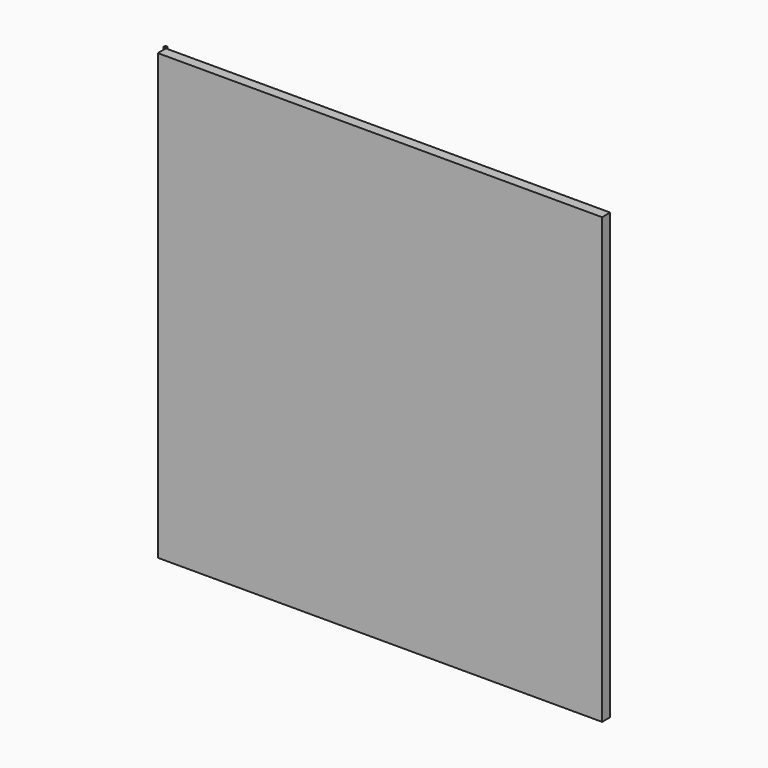
from build123d import *

# Parameters (mm, degrees)
F0_W     = 2200
F0_H     = 2200
F1_DEPTH = 50
F2_R     = 4
F3_DEPTH = 2200
F4_W     = 20
F4_H     = 30
F4_R     = 6
F5_DEPTH = 5


with BuildPart() as f1:
    # F0 (on Front) → F1 (new body)
    with BuildSketch(Plane.XZ):
        Rectangle(F0_W, F0_H)
    extrude(amount=F1_DEPTH)

    # F2 (on face) → F3 (join)
    with BuildSketch(Plane.XY.offset(1100)):
        with BuildLine():
            ThreePointArc((-1105.353447, 1.691975), (-1102.181411, 4.459526), (-1101, 8.5))
            ThreePointArc((-1101, 8.5), (-1113.818829, 13.787727), (-1108.456016, 1.000129))
            ThreePointArc((-1108.456016, 1.000129), (-1106.867657, 1.179791), (-1105.353447, 1.691975))
        make_face()
        with Locations((-1108.5, 8.5)):
            Circle(F2_R, mode=Mode.SUBTRACT)
        with BuildLine():
            ThreePointArc((-1105.353447, 1.691975), (-1106.867657, 1.179791), (-1108.456016, 1.000129))
            Line((-1108.456016, 1.000129), (-1108.456016, 0))
            Line((-1108.456016, 0), (-1100, 0))
            Line((-1100, 0), (-1090.031385, 0))
            Line((-1090.031385, 0), (-1090.031385, 1.691975))
            Line((-1090.031385, 1.691975), (-1105.353447, 1.691975))
        make_face()
    extrude(amount=-F3_DEPTH)

    # F4 (on face) → F5 (join)
    with BuildSketch(Plane(origin=(0, 0, -1100), x_dir=(1, 0, 0), z_dir=(0, 0, -1))):
        with Locations((-751, -15)):
            Rectangle(F4_W, F4_H)
        with Locations((-751, -20)):
            Circle(F4_R, mode=Mode.SUBTRACT)
    extrude(amount=-F5_DEPTH)


solid = f1.part
